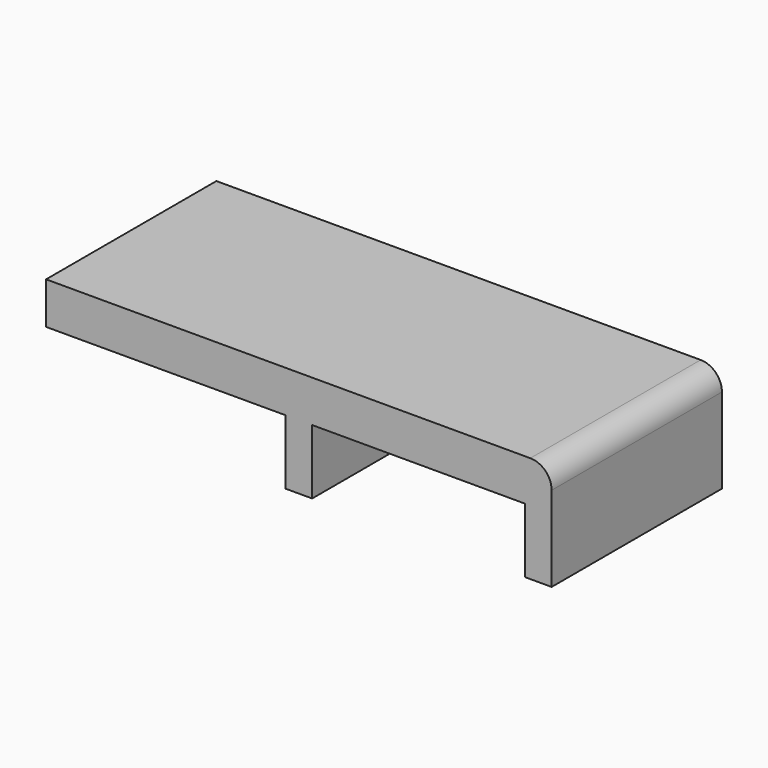
from build123d import *

# Parameters (mm, degrees)
F1_DEPTH = 50.8
F2_R     = 5.08
F3_R     = 9.398
F4_DEPTH = 5.08


with BuildPart() as f1:
    # F0 (on Front) → F1 (new body)
    with BuildSketch(Plane.XZ):
        Polygon((0, -15.438433), (0, 0), (50.8, 0), (50.8, -15.438433), (57.15, -15.438433), (57.15, 9.961567), (50.8, 9.961567), (0, 9.961567), (-6.35, 9.961567), (-63.5, 9.961567), (-63.5, -0.038433), (-6.35, -0.003843), (-6.35, -15.438433), align=None)
    extrude(amount=-F1_DEPTH)

    # F2
    f2_edges = [f1.edges().sort_by_distance(p)[0] for p in [
        (57.15, 25.4, 9.961567),
    ]]
    fillet(f2_edges, radius=F2_R)

    # F3 (on face) → F4 (cut)
    with BuildSketch(Plane(origin=(0, 0, 0), x_dir=(1, 0, 0), z_dir=(0, 0, -1))):
        with Locations((25.4, -25.4)):
            Circle(F3_R)
    extrude(amount=-F4_DEPTH, mode=Mode.SUBTRACT)


solid = f1.part
